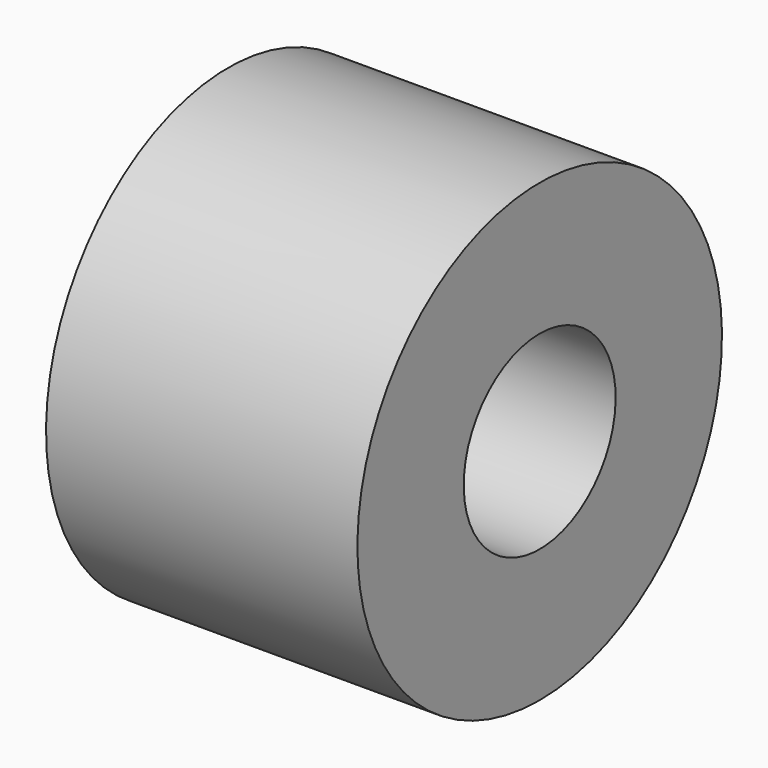
from build123d import *

# Parameters (mm, degrees)
CYLINDER063_R     = 1.25
CYLINDER063_DEPTH = 5
CYLINDER043_R     = 3
CYLINDER043_DEPTH = 4.1


with BuildPart() as b_w010:
    # Cylinder063 → Cylinder063 (new body)
    with BuildSketch(Plane(origin=(5, 6, 26), x_dir=(0, 0, 1), z_dir=(-1, 0, 0))):
        Circle(CYLINDER063_R)
    extrude(amount=CYLINDER063_DEPTH)


with BuildPart() as cut026:
    # Cylinder043 → Cylinder043 (new body)
    with BuildSketch(Plane(origin=(-1, 6, 26), x_dir=(0, 0, -1), z_dir=(1, 0, 0))):
        Circle(CYLINDER043_R)
    extrude(amount=CYLINDER043_DEPTH)

    # Cut026: cut B_W010
    add(b_w010.part, mode=Mode.SUBTRACT)


solid = cut026.part
